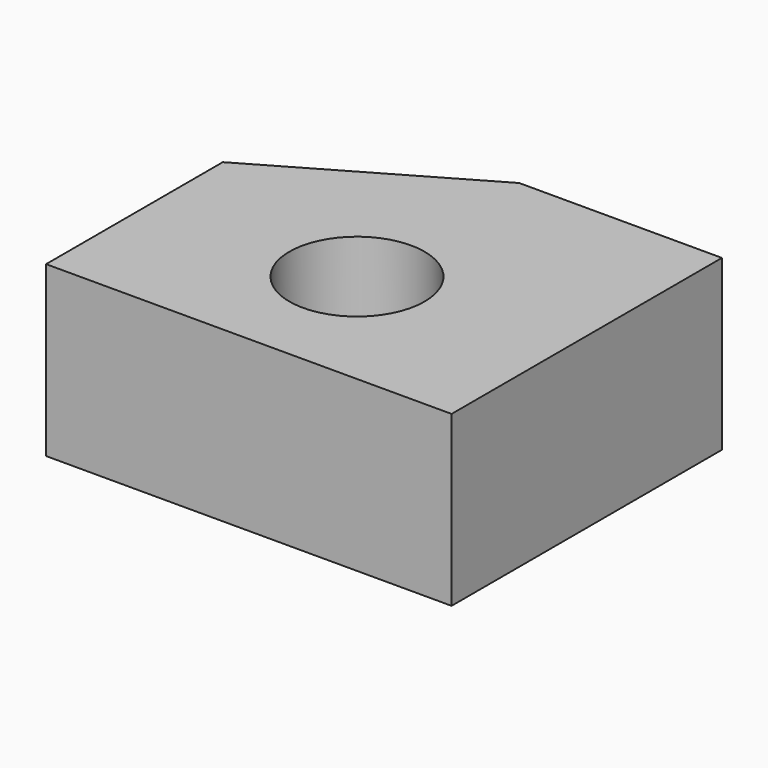
from build123d import *

# Parameters (mm, degrees)
F1_DEPTH = 25
F2_R     = 10
F3_DEPTH = 15


with BuildPart() as f1:
    # F0 (on Top) → F1 (new body)
    with BuildSketch(Plane.XY):
        Polygon((0, 32.679492), (0, 0), (60, 0), (60, 50), (30, 50), align=None)
    extrude(amount=F1_DEPTH)

    # F2 (on face) → F3 (cut)
    with BuildSketch(Plane.XY.offset(25)):
        with Locations((30, 20)):
            Circle(F2_R)
    extrude(amount=-F3_DEPTH, mode=Mode.SUBTRACT)


solid = f1.part
